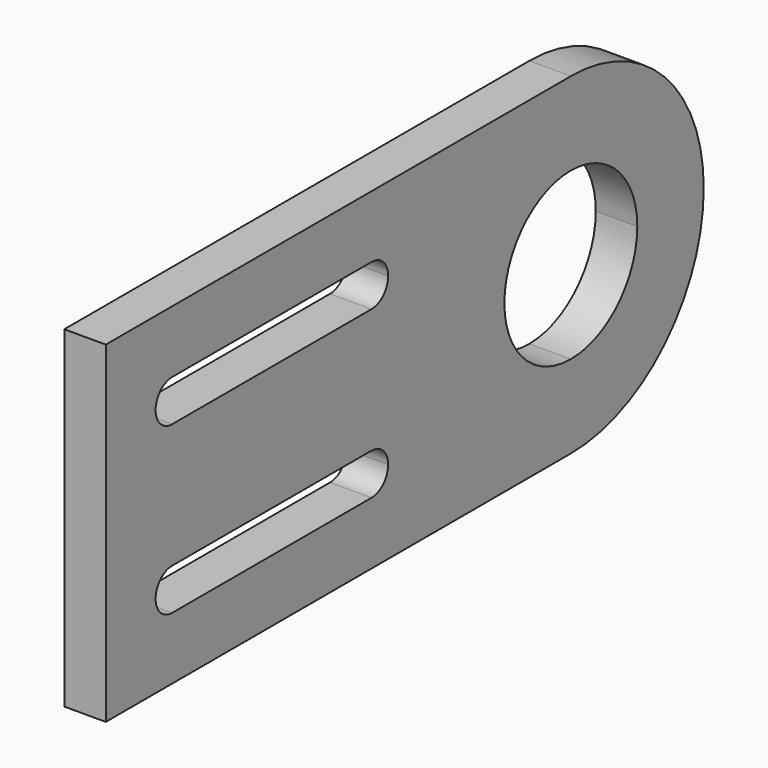
from build123d import *

# Parameters (mm, degrees)
F1_DEPTH = 1.5875


with BuildPart() as f1:
    # F0 (on Right) → F1 (new body)
    with BuildSketch(Plane.YZ):
        with BuildLine():
            ThreePointArc((0, -6.35), (4.4901280605, -4.4901280605), (6.35, 0))
            ThreePointArc((6.35, 0), (4.4901280605, 4.4901280605), (0, 6.35))
            Line((0, 6.35), (0, 3.175))
            ThreePointArc((0, 3.175), (2.2450640303, 2.2450640303), (3.175, 0))
            ThreePointArc((3.175, 0), (2.2450640303, -2.2450640303), (0, -3.175))
            Line((0, -3.175), (0, -6.35))
        make_face()
        with BuildLine():
            Line((0, 3.175), (0, 6.35))
            ThreePointArc((0, 6.35), (-6.35, 0), (0, -6.35))
            Line((0, -6.35), (0, -3.175))
            ThreePointArc((0, -3.175), (-3.175, 0), (0, 3.175))
        make_face()
        with BuildLine():
            ThreePointArc((0, -6.35), (-6.35, 0), (0, 6.35))
            Line((0, 6.35), (-22.225, 6.35))
            Line((-22.225, 6.35), (-22.225, -6.35))
            Line((-22.225, -6.35), (0, -6.35))
        make_face()
        with BuildLine():
            ThreePointArc((-9.525, -2.38125), (-8.9637339924, -2.6137339924), (-8.73125, -3.175))
            ThreePointArc((-8.73125, -3.175), (-8.9637339924, -3.7362660076), (-9.525, -3.96875))
            Line((-9.525, -3.96875), (-19.05, -3.96875))
            ThreePointArc((-19.05, -3.96875), (-19.84375, -3.175), (-19.05, -2.38125))
            Line((-19.05, -2.38125), (-9.525, -2.38125))
        make_face(mode=Mode.SUBTRACT)
        with BuildLine():
            ThreePointArc((-19.05, 2.38125), (-19.84375, 3.175), (-19.05, 3.96875))
            Line((-19.05, 3.96875), (-9.525, 3.96875))
            ThreePointArc((-9.525, 3.96875), (-8.9637339924, 3.7362660076), (-8.73125, 3.175))
            ThreePointArc((-8.73125, 3.175), (-8.9637339924, 2.6137339924), (-9.525, 2.38125))
            Line((-9.525, 2.38125), (-19.05, 2.38125))
        make_face(mode=Mode.SUBTRACT)
    extrude(amount=-F1_DEPTH)


solid = f1.part
